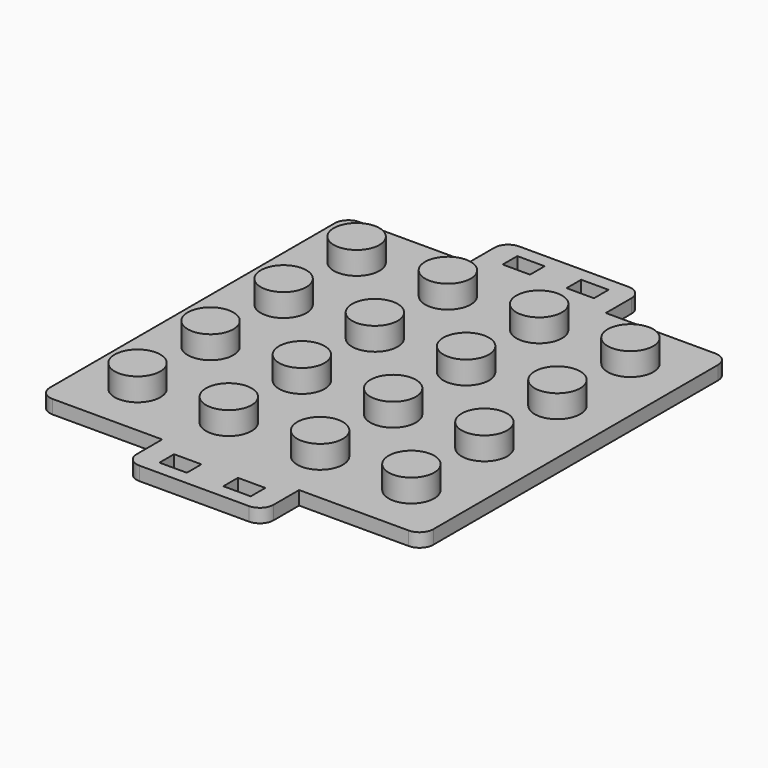
from build123d import *

# Parameters (mm, degrees)
PAD_DEPTH    = 3
SKETCH001_R  = 5
PAD001_DEPTH = 5
SKETCH002_W  = 6
SKETCH002_H  = 4
POCKET_DEPTH = 5


with BuildPart() as part:
    # Sketch → Pad (new body)
    with BuildSketch(Plane.XY):
        with BuildLine():
            Line((42, -39), (42, 39))
            ThreePointArc((42, 39), (41.1213203436, 41.1213203436), (39, 42))
            Line((39, 42), (-39, 42))
            ThreePointArc((-39, 42), (-41.1213203436, 41.1213203436), (-42, 39))
            Line((-42, 39), (-42, -39))
            ThreePointArc((-42, -39), (-41.1213203436, -41.1213203436), (-39, -42))
            Line((-39, -42), (39, -42))
            ThreePointArc((39, -42), (41.1213203436, -41.1213203436), (42, -39))
        make_face()
        with BuildLine():
            Line((-15, 42), (15, 42))
            Line((15, 42), (15, 49))
            ThreePointArc((15, 49), (14.1213203436, 51.1213203436), (12, 52))
            Line((12, 52), (-12, 52))
            ThreePointArc((-12, 52), (-14.1213203436, 51.1213203436), (-15, 49))
            Line((-15, 49), (-15, 42))
        make_face()
        with BuildLine():
            Line((-15, -42), (-15, -49))
            ThreePointArc((-15, -49), (-14.1213203436, -51.1213203436), (-12, -52))
            Line((-12, -52), (12, -52))
            ThreePointArc((12, -52), (14.1213203436, -51.1213203436), (15, -49))
            Line((15, -49), (15, -42))
            Line((15, -42), (-15, -42))
        make_face()
    extrude(amount=PAD_DEPTH)

    # Sketch001 (on Face22 of Pad) → Pad001 (join)
    with BuildSketch(Plane.XY.offset(3)):
        with Locations((-30, 30)):
            Circle(SKETCH001_R)
        with Locations((-10, 30)):
            Circle(SKETCH001_R)
        with Locations((-30, 10)):
            Circle(SKETCH001_R)
        with Locations((-10, 10)):
            Circle(SKETCH001_R)
        with Locations((-30, -10)):
            Circle(SKETCH001_R)
        with Locations((-10, -10)):
            Circle(SKETCH001_R)
        with Locations((-30, -30)):
            Circle(SKETCH001_R)
        with Locations((-10, -30)):
            Circle(SKETCH001_R)
        with Locations((10, 30)):
            Circle(SKETCH001_R)
        with Locations((30, 30)):
            Circle(SKETCH001_R)
        with Locations((10, 10)):
            Circle(SKETCH001_R)
        with Locations((30, 10)):
            Circle(SKETCH001_R)
        with Locations((10, -10)):
            Circle(SKETCH001_R)
        with Locations((30, -10)):
            Circle(SKETCH001_R)
        with Locations((10, -30)):
            Circle(SKETCH001_R)
        with Locations((30, -30)):
            Circle(SKETCH001_R)
    extrude(amount=PAD001_DEPTH)

    # Sketch002 (on Face5 of Pad001) → Pocket (cut)
    with BuildSketch(Plane.XY.offset(3)):
        with Locations((-7, 47)):
            Rectangle(SKETCH002_W, SKETCH002_H)
        with Locations((7, 47)):
            Rectangle(SKETCH002_W, SKETCH002_H)
        with Locations((7, -47)):
            Rectangle(SKETCH002_W, SKETCH002_H)
        with Locations((-7, -47)):
            Rectangle(SKETCH002_W, SKETCH002_H)
    extrude(amount=-POCKET_DEPTH, mode=Mode.SUBTRACT)


solid = part.part
